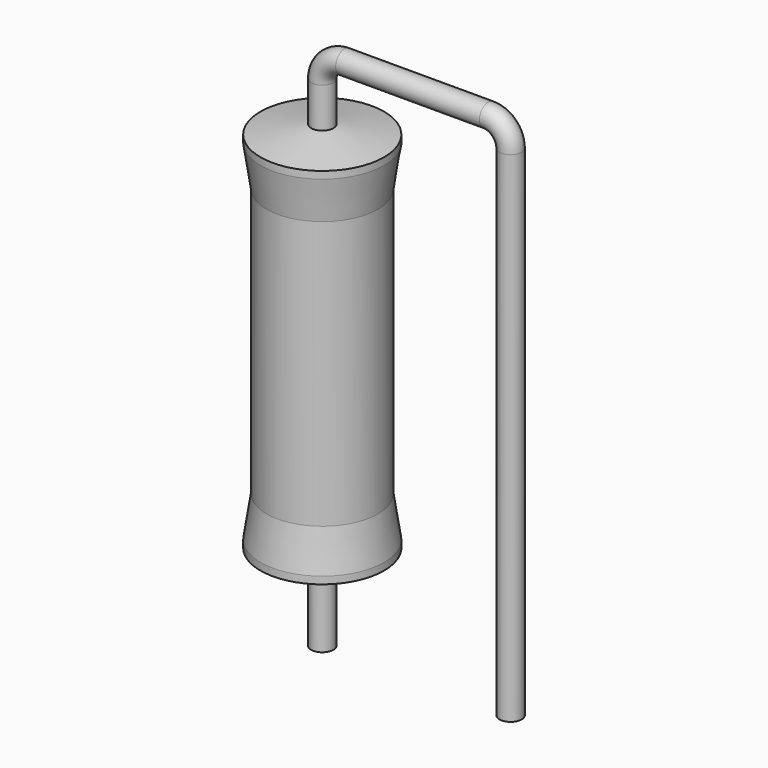
from build123d import *

# Parameters (mm, degrees)
SKETCH_R = 0.45


with BuildPart() as sweep_body:
    # Sweep: sweep along a path in Sketch001
    with BuildLine(Plane.XZ) as sweep_path:
        Line((0, -3), (0, 17.2))
        ThreePointArc((0, 17.2), (0.2636, 17.836392), (0.899988, 18.1))
        Line((0.899988, 18.1), (6.72, 18.1))
        ThreePointArc((6.72, 18.1), (7.356396, 17.836396), (7.62, 17.2))
        Line((7.62, 17.2), (7.62, -3))
    # Sketch → Sweep (sweep)
    with BuildSketch(Plane.XY.offset(-2)):
        Circle(SKETCH_R)
    sweep(path=sweep_path.line)


with BuildPart() as revolution:
    # Sketch002 → Revolution (revolve)
    with BuildSketch(Plane.XZ):
        Polygon((0, 0.1), (0, 15.6), (0.3375, 15.6), (2.5, 15.2125), (2.5, 14.92), (2.25, 13.275), (2.25, 2.425), (2.5, 0.78), (2.5, 0.4875), (0.3375, 0.1), align=None)
    revolve(axis=Axis((0, 0, 0), (0, 0, 1)))


solid = Compound([sweep_body.part, revolution.part])
